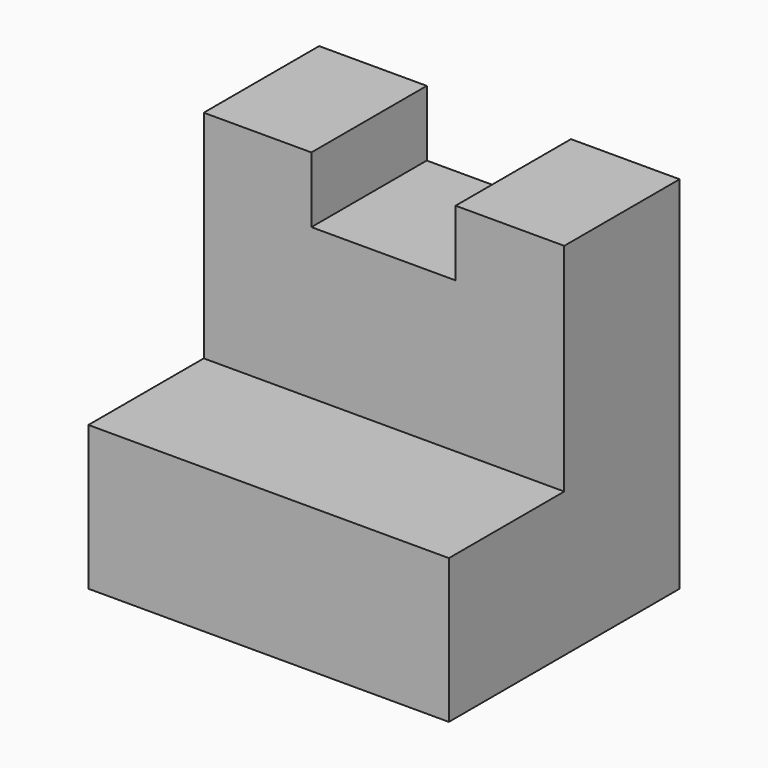
from build123d import *

# Parameters (mm, degrees)
F1_DEPTH = 31.75
F2_W     = 12.7
F2_H     = 6.35
F3_DEPTH = 25.4
F4_DEPTH = 25.4


with BuildPart() as f1:
    # F0 (on Right) → F1 (new body)
    with BuildSketch(Plane.YZ):
        Polygon((0, 12.7), (0, 0), (25.4, 0), (25.4, 31.75), (12.7, 31.75), (12.7, 12.7), align=None)
    extrude(amount=F1_DEPTH)

    # F2 (on Front) → F3 (cut)
    with BuildSketch(Plane.XZ):
        with Locations((15.830855, 29.134337)):
            Rectangle(F2_W, F2_H)
    extrude(amount=-F3_DEPTH, mode=Mode.SUBTRACT)

    # F2 (on Front) → F4 (cut)
    with BuildSketch(Plane.XZ):
        with Locations((15.830855, 29.134337)):
            Rectangle(F2_W, F2_H)
    extrude(amount=-F4_DEPTH, mode=Mode.SUBTRACT)


solid = f1.part
